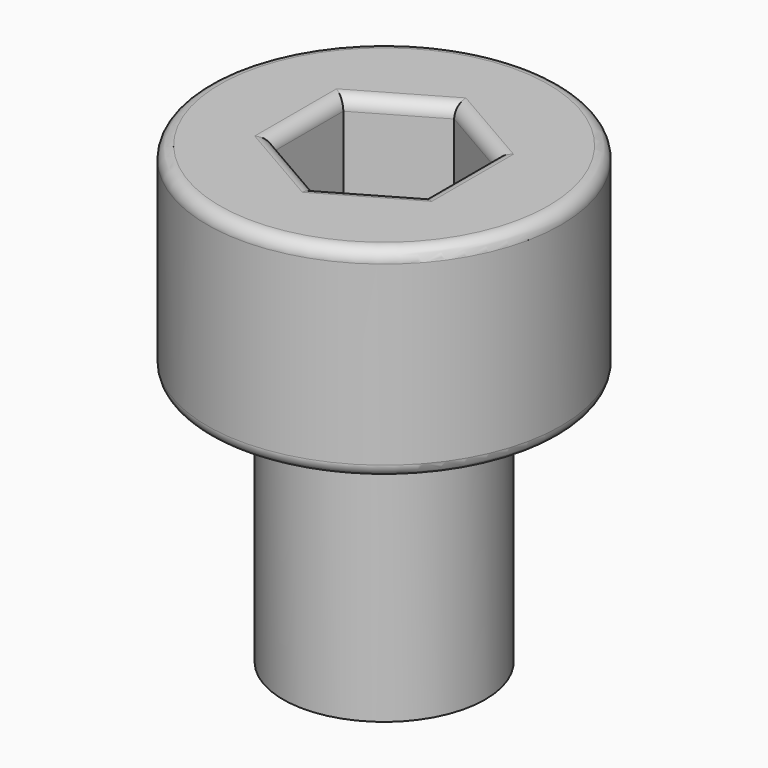
from build123d import *

# Parameters (mm, degrees)
F0_R     = 3.5
F1_DEPTH = 4
F2_R     = 2
F3_DEPTH = 5
F5_DEPTH = 3
F6_R     = 0.25


with BuildPart() as f1:
    # F0 (on Top) → F1 (new body)
    with BuildSketch(Plane.XY):
        Circle(F0_R)
    extrude(amount=F1_DEPTH)

    # F2 (on face) → F3 (join)
    with BuildSketch(Plane(origin=(0, 0, 0), x_dir=(1, 0, 0), z_dir=(0, 0, -1))):
        Circle(F2_R)
    extrude(amount=F3_DEPTH)

    # F4 (on face) → F5 (cut)
    with BuildSketch(Plane.XY.offset(4)):
        Polygon((1.5, -0.8660254038), (1.5, 0.8660254038), (0, 1.7320508076), (-1.5, 0.8660254038), (-1.5, -0.8660254038), (0, -1.7320508076), align=None)
    extrude(amount=-F5_DEPTH, mode=Mode.SUBTRACT)

    # F6
    f6_edges = [f1.edges().sort_by_distance(p)[0] for p in [
        (-3.5, 0, 4),
        (1.5, 0, 4),
        (0.75, 1.299038, 4),
        (-0.75, 1.299038, 4),
        (-1.5, 0, 4),
        (-0.75, -1.299038, 4),
        (0.75, -1.299038, 4),
        (-3.5, 0, 0),
    ]]
    fillet(f6_edges, radius=F6_R)


solid = f1.part
